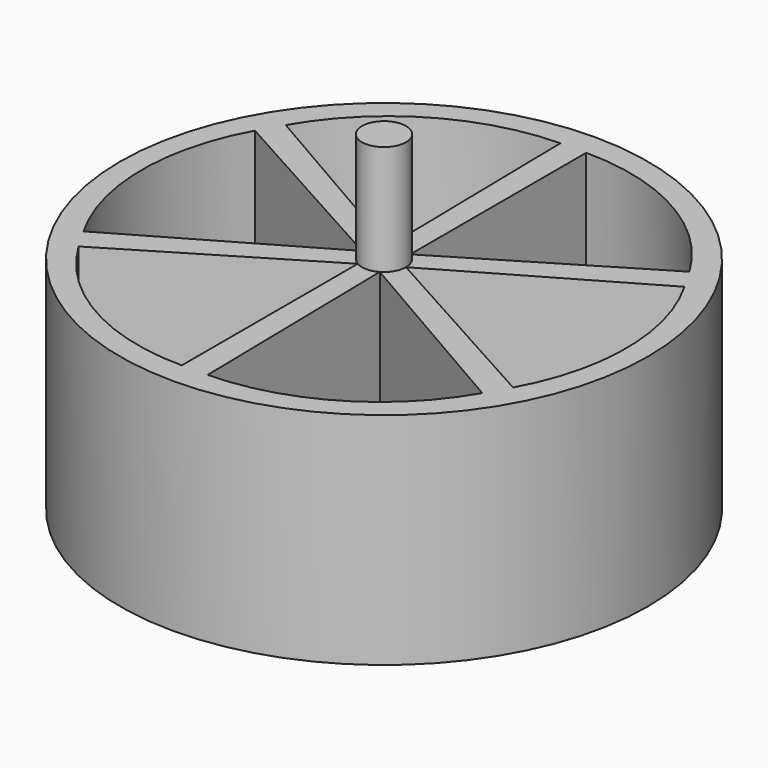
from build123d import *

# Parameters (mm, degrees)
CYLINDER002_R               = 1
CYLINDER002_DEPTH           = 15
CYLINDER001_W               = 10
CYLINDER001_H               = 10
CYLINDER001_ANGLE           = 59
CYLINDER001_PLACEMENT_ANGLE = -29
ARRAY_COUNT                 = 6
CYLINDER_R                  = 12
CYLINDER_DEPTH              = 10


with BuildPart() as obj1:
    # Cylinder002 → Cylinder002 (new body)
    with BuildSketch(Plane.XY):
        Circle(CYLINDER002_R)
    extrude(amount=CYLINDER002_DEPTH)


with BuildPart() as obj2:
    # Cylinder001 → Cylinder001 (revolve)
    with BuildSketch(Plane.XZ):
        with Locations((5, 5)):
            Rectangle(CYLINDER001_W, CYLINDER001_H)
    revolve(axis=Axis((0, 0, 0), (0, 0, 1)), revolution_arc=CYLINDER001_ANGLE)


with BuildPart() as obj2_1:
    # Cylinder001 placement: moved
    add(obj2.part.moved(Location((1, 0, 2))).rotate(Axis((1, 0, 2), (0, 0, 1)), CYLINDER001_PLACEMENT_ANGLE))

    # Array: obj2 ×6 about axis
    array_axis = Axis((0, 0, 0), (0, 0, 1))


with BuildPart() as obj2_2:
    add(obj2_1.part)
    for i in range(1, ARRAY_COUNT):
        add(obj2_1.part.rotate(array_axis, i * 360 / ARRAY_COUNT))


with BuildPart() as cut:
    # Cylinder → Cylinder (new body)
    with BuildSketch(Plane.XY):
        Circle(CYLINDER_R)
    extrude(amount=CYLINDER_DEPTH)

    # Cut: cut obj2
    add(obj2_2.part, mode=Mode.SUBTRACT)


solid = Compound([obj1.part, cut.part])
